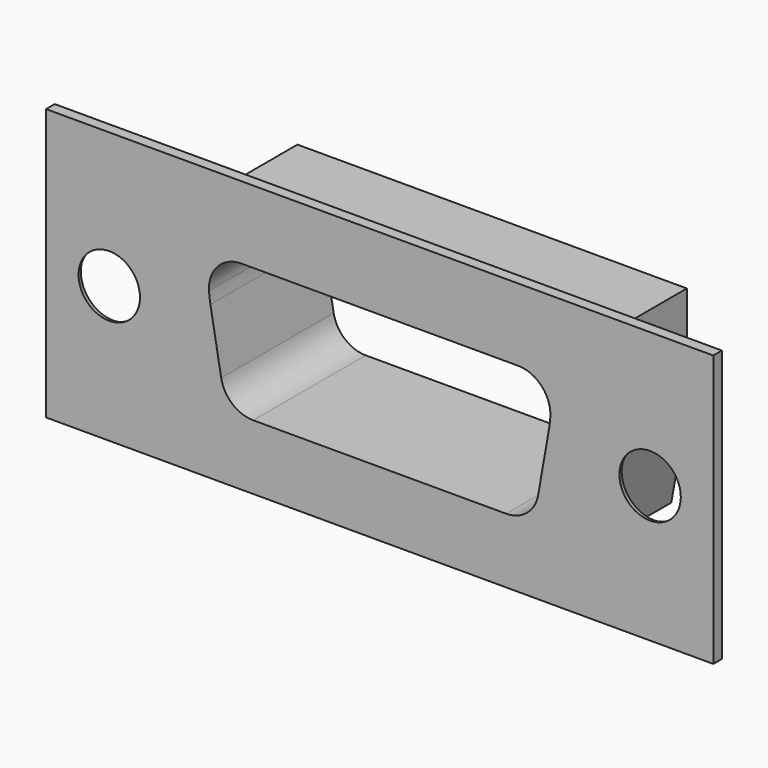
from build123d import *

# Parameters (mm, degrees)
BOX042_W           = 30.84
BOX042_H           = 6.5
BOX042_DEPTH       = 12.55
BOX043_W           = 6.5
BOX043_H           = 6
BOX043_DEPTH       = 12.55
BOX040_W           = 6.5
BOX040_H           = 6
BOX040_DEPTH       = 12.55
BOX044_W           = 15.8
BOX044_H           = 7
BOX044_DEPTH       = 6.2
BOX041_W           = 23
BOX041_H           = 6
BOX041_DEPTH       = 1.6
BOX039_W           = 19
BOX039_H           = 6
BOX039_DEPTH       = 2
CYLINDER008_R      = 1.42
CYLINDER008_DEPTH  = 3
CYLINDER009_R      = 1.42
CYLINDER009_DEPTH  = 3
CHAMFER001_1_ANGLE = 10
CHAMFER001_1_SIZE  = 4.5
CHAMFER001_2_ANGLE = 10
CHAMFER001_2_SIZE  = 4.5
FILLET012_R        = 5
FILLET009_R        = 1.5
FILLET013_R        = 5
FILLET010_R        = 1.5
FILLET014_R        = 1.5
FILLET011_R        = 1.5
FILLET015_R        = 0.38
FILLET016_R        = 0.38
BOX045_W           = 1
BOX045_H           = 6
BOX045_DEPTH       = 10
BOX046_W           = 1
BOX046_H           = 6
BOX046_DEPTH       = 10


with BuildPart() as part:
    # Box042 → Box042 (join)
    with BuildSketch(Plane(origin=(-15.42, 19, 0), x_dir=(1, 0, 0), z_dir=(0, 0, 1))):
        with Locations((15.42, 3.25)):
            Rectangle(BOX042_W, BOX042_H)
    extrude(amount=BOX042_DEPTH)

    # Box043 → Box043 (cut)
    with BuildSketch(Plane(origin=(9, 19.5, 0), x_dir=(1, 0, 0), z_dir=(0, 0, 1))):
        with Locations((3.25, 3)):
            Rectangle(BOX043_W, BOX043_H)
    extrude(amount=BOX043_DEPTH, mode=Mode.SUBTRACT)

    # Box040 → Box040 (cut)
    with BuildSketch(Plane(origin=(-15.5, 19.5, 0), x_dir=(1, 0, 0), z_dir=(0, 0, 1))):
        with Locations((3.25, 3)):
            Rectangle(BOX040_W, BOX040_H)
    extrude(amount=BOX040_DEPTH, mode=Mode.SUBTRACT)

    # Box044 → Box044 (cut)
    with BuildSketch(Plane(origin=(-7.9, 19, 3), x_dir=(1, 0, 0), z_dir=(0, 0, 1))):
        with Locations((7.9, 3.5)):
            Rectangle(BOX044_W, BOX044_H)
    extrude(amount=BOX044_DEPTH, mode=Mode.SUBTRACT)

    # Box041 → Box041 (cut)
    with BuildSketch(Plane(origin=(-11.5, 19.5, 0), x_dir=(1, 0, 0), z_dir=(0, 0, 1))):
        with Locations((11.5, 3)):
            Rectangle(BOX041_W, BOX041_H)
    extrude(amount=BOX041_DEPTH, mode=Mode.SUBTRACT)

    # Box039 → Box039 (cut)
    with BuildSketch(Plane(origin=(-9.5, 19.5, 10.55), x_dir=(1, 0, 0), z_dir=(0, 0, 1))):
        with Locations((9.5, 3)):
            Rectangle(BOX039_W, BOX039_H)
    extrude(amount=BOX039_DEPTH, mode=Mode.SUBTRACT)

    # Cylinder008 → Cylinder008 (cut)
    with BuildSketch(Plane(origin=(12.5, 21, 6.3), x_dir=(1, 0, 0), z_dir=(0, -1, 0))):
        Circle(CYLINDER008_R)
    extrude(amount=CYLINDER008_DEPTH, mode=Mode.SUBTRACT)

    # Cylinder009 → Cylinder009 (cut)
    with BuildSketch(Plane(origin=(-12.5, 20, 6.3), x_dir=(1, 0, 0), z_dir=(0, -1, 0))):
        Circle(CYLINDER009_R)
    extrude(amount=CYLINDER009_DEPTH, mode=Mode.SUBTRACT)

    # Chamfer001 1
    chamfer001_1_edges = [part.edges().sort_by_distance(p)[0] for p in [
        (7.9, 22.25, 3),
    ]]
    chamfer001_1_side = part.faces().sort_by_distance((7.9, 22.25, 6.1))[0]
    chamfer(chamfer001_1_edges, length=CHAMFER001_1_SIZE, angle=CHAMFER001_1_ANGLE, reference=chamfer001_1_side)

    # Chamfer001 2
    chamfer001_2_edges = [part.edges().sort_by_distance(p)[0] for p in [
        (-7.9, 22.25, 3),
    ]]
    chamfer001_2_side = part.faces().sort_by_distance((-7.9, 22.25, 6.1))[0]
    chamfer(chamfer001_2_edges, length=CHAMFER001_2_SIZE, angle=CHAMFER001_2_ANGLE, reference=chamfer001_2_side)

    # Fillet012
    fillet012_edges = [part.edges().sort_by_distance(p)[0] for p in [
        (7.9, 22.25, 7.5),
    ]]
    fillet(fillet012_edges, radius=FILLET012_R)

    # Fillet009
    fillet009_edges = [part.edges().sort_by_distance(p)[0] for p in [
        (7.9, 22.25, 9.2),
    ]]
    fillet(fillet009_edges, radius=FILLET009_R)

    # Fillet013
    fillet013_edges = [part.edges().sort_by_distance(p)[0] for p in [
        (-7.9, 22.25, 7.5),
    ]]
    fillet(fillet013_edges, radius=FILLET013_R)

    # Fillet010
    fillet010_edges = [part.edges().sort_by_distance(p)[0] for p in [
        (-7.9, 22.25, 9.2),
    ]]
    fillet(fillet010_edges, radius=FILLET010_R)

    # Fillet014
    fillet014_edges = [part.edges().sort_by_distance(p)[0] for p in [
        (7.106529, 22.25, 3),
    ]]
    fillet(fillet014_edges, radius=FILLET014_R)

    # Fillet011
    fillet011_edges = [part.edges().sort_by_distance(p)[0] for p in [
        (-7.106529, 22.25, 3),
    ]]
    fillet(fillet011_edges, radius=FILLET011_R)

    # Cone002 → Cone002 (revolve, cut)
    with BuildSketch(Plane(origin=(12.5, 19.5, 6.3), x_dir=(1, 0, 0), z_dir=(0, 0, -1))):
        Polygon((0, 0), (2.42, 0), (1.32, 0.2), (0, 0.2), align=None)
    revolve(axis=Axis((12.5, 19.5, 6.3), (0, -1, 0)), mode=Mode.SUBTRACT)

    # Fillet015
    fillet015_edges = [part.edges().sort_by_distance(p)[0] for p in [
        (11.08, 19.318182, 6.3),
    ]]
    fillet(fillet015_edges, radius=FILLET015_R)

    # Cone003 → Cone003 (revolve, cut)
    with BuildSketch(Plane(origin=(-12.5, 19.5, 6.3), x_dir=(1, 0, 0), z_dir=(0, 0, -1))):
        Polygon((0, 0), (2.42, 0), (1.32, 0.2), (0, 0.2), align=None)
    revolve(axis=Axis((-12.5, 19.5, 6.3), (0, -1, 0)), mode=Mode.SUBTRACT)

    # Fillet016
    fillet016_edges = [part.edges().sort_by_distance(p)[0] for p in [
        (-13.92, 19.318182, 6.3),
    ]]
    fillet(fillet016_edges, radius=FILLET016_R)

    # Box045 → Box045 (cut)
    with BuildSketch(Plane(origin=(8, 19.5, 0), x_dir=(0.984808, 0, -0.173648), z_dir=(0.173648, 0, 0.984808))):
        with Locations((0.5, 3)):
            Rectangle(BOX045_W, BOX045_H)
    extrude(amount=BOX045_DEPTH, mode=Mode.SUBTRACT)

    # Box046 → Box046 (cut)
    with BuildSketch(Plane(origin=(-9, 19.5, 0), x_dir=(0.984808, 0, 0.173648), z_dir=(-0.173648, 0, 0.984808))):
        with Locations((0.5, 3)):
            Rectangle(BOX046_W, BOX046_H)
    extrude(amount=BOX046_DEPTH, mode=Mode.SUBTRACT)


with BuildPart() as part_1:
    # Body005 placement: moved
    add(part.part.moved(Location((0, 0, 15.85))))


solid = part_1.part
